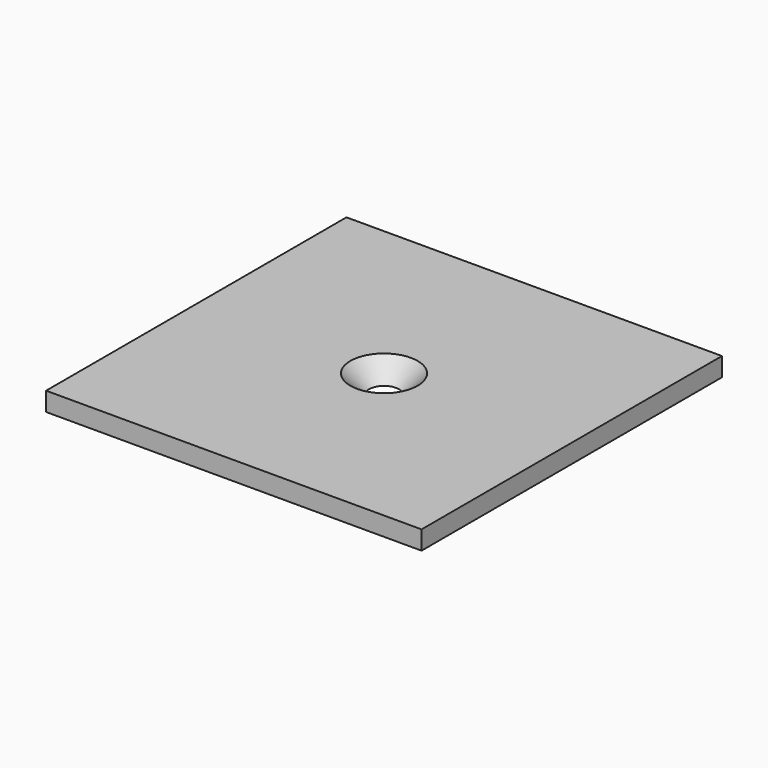
from build123d import *

# Parameters (mm, degrees)
F0_W           = 100
F0_H           = 100
F1_DEPTH       = 5
F3_D           = 6.8
F3_CSINK_D     = 17.92
F3_CSINK_ANGLE = 90


with BuildPart() as f1:
    # F0 (on Top) → F1 (new body)
    with BuildSketch(Plane.XY):
        Rectangle(F0_W, F0_H)
    extrude(amount=F1_DEPTH)

    # F3 (through all)
    with Locations(Plane.XY.offset(5)):
        with Locations((0, 0)):
            CounterSinkHole(F3_D / 2, F3_CSINK_D / 2, counter_sink_angle=F3_CSINK_ANGLE)


solid = f1.part
